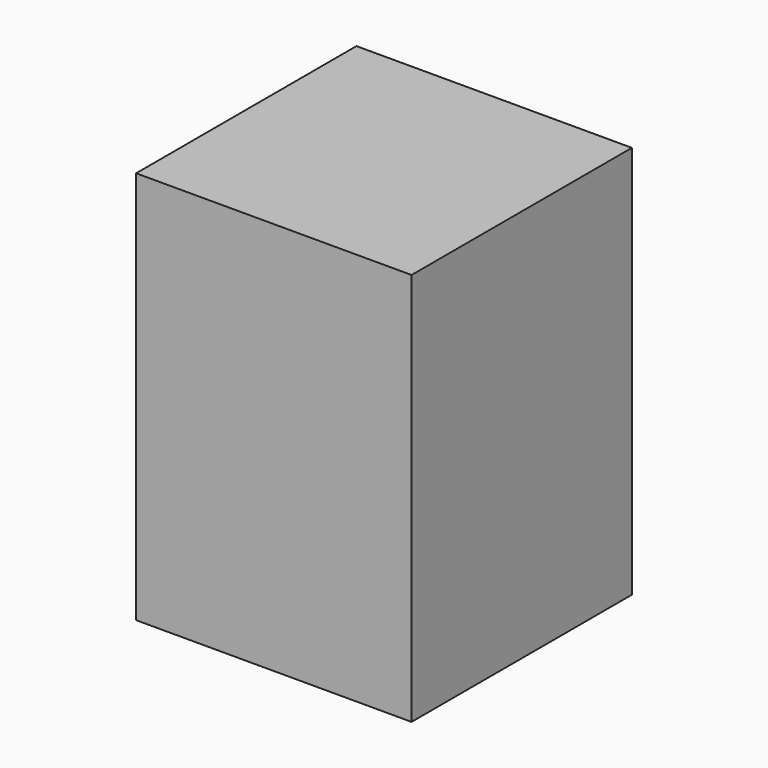
from build123d import *

# Parameters (mm, degrees)
SKETCH_W      = 35
SKETCH_H      = 35
EXTRUDE_DEPTH = 50


with BuildPart() as part:
    # Sketch → Extrude (new body)
    with BuildSketch(Plane.XY):
        Rectangle(SKETCH_W, SKETCH_H)
    extrude(amount=EXTRUDE_DEPTH)


solid = part.part
